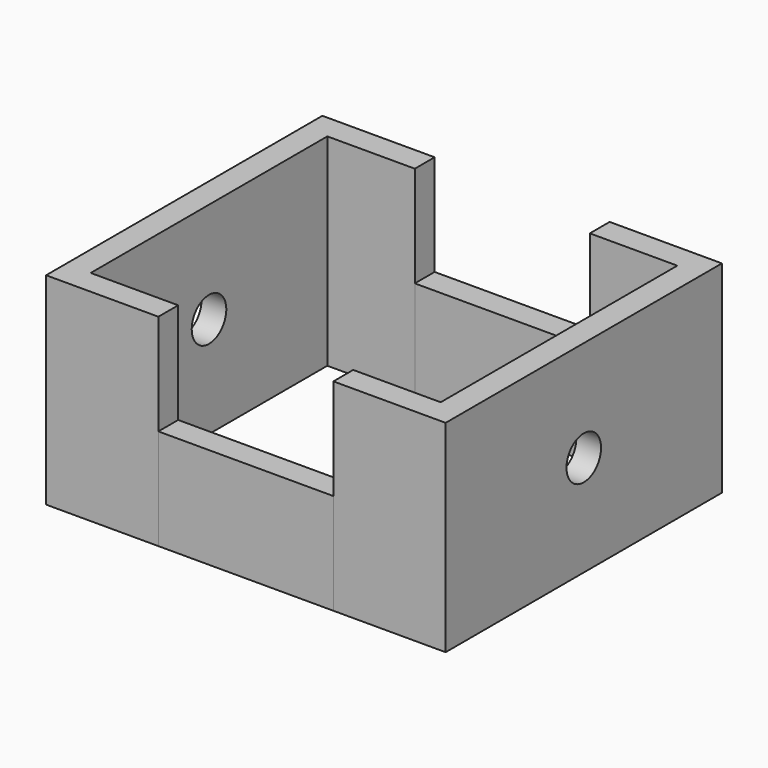
from build123d import *

# Parameters (mm, degrees)
F1_DEPTH = 50.8
F0_W     = 22.011524
F0_H     = 6.233353
F2_DEPTH = 25.4
F4_R     = 5.436112
F5_DEPTH = 50.257401


with BuildPart() as f1:
    # F0 (on Top) → F1 (new body)
    with BuildSketch(Plane.XY):
        Polygon((-50.256401, -43.438673), (-22.011524, -43.438673), (-22.011524, -37.20532), (-44.023048, -37.20532), (-44.023048, 0), (-50.256401, 0), align=None)
    extrude(amount=F1_DEPTH)

    # F0 (on Top) → F2 (join)
    with BuildSketch(Plane.XY):
        with Locations((-11.005762, -40.321996)):
            Rectangle(F0_W, F0_H)
        Polygon((-50.256401, -43.438673), (-22.011524, -43.438673), (-22.011524, -37.20532), (-44.023048, -37.20532), (-44.023048, 0), (-50.256401, 0), align=None)
    extrude(amount=F2_DEPTH)

    # F3: F1 across plane


with BuildPart() as f1_1:
    add(f1.part)
    add(f1.part.mirror(Plane.XZ))

    # F4 (on face) → F5 (cut, through all)
    with BuildSketch(Plane(origin=(-50.256401, 0, 0), x_dir=(0, -1, 0), z_dir=(-1, 0, 0))):
        with Locations((0, 25.4)):
            Circle(F4_R)
    extrude(amount=-F5_DEPTH, mode=Mode.SUBTRACT)

    # F6: F1 across plane


with BuildPart() as f1_2:
    add(f1_1.part)
    add(f1_1.part.mirror(Plane.YZ))


solid = f1_2.part
